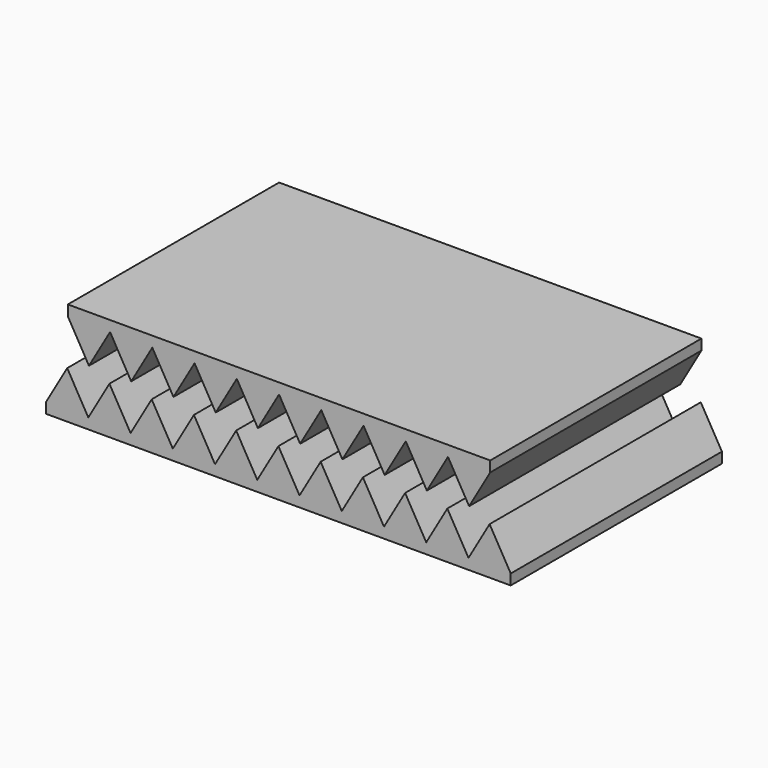
from build123d import *

# Parameters (mm, degrees)
F1_DEPTH = 127


with BuildPart() as f1:
    # F0 (on Front) → F1 (new body)
    with BuildSketch(Plane.XZ):
        Polygon((49.016666, 27.077045), (-154.183334, 27.077045), (-154.183334, 21.997045), (-144.023334, 4.399409), (-133.863334, 21.997045), (-123.703334, 4.399409), (-113.543334, 21.997045), (-103.383334, 4.399409), (-93.223334, 21.997045), (-83.063334, 4.399409), (-72.903334, 21.997045), (-62.743334, 4.399409), (-52.583334, 21.997045), (-42.423334, 4.399409), (-32.263334, 21.997045), (-22.103334, 4.399409), (-11.943334, 21.997045), (-1.783334, 4.399409), (8.376666, 21.997045), (18.536666, 4.399409), (28.696666, 21.997045), (38.856666, 4.399409), (49.016666, 21.997045), align=None)
        Polygon((-154.492017, 0), (-164.652017, -17.597636), (-154.492017, -17.597636), align=None)
        Polygon((-144.332017, -17.597636), (-154.492017, 0), (-154.492017, -17.597636), align=None)
        Polygon((-154.492017, -17.597636), (-164.652017, -17.597636), (-164.652017, -22.677636), (58.867983, -22.677636), (58.867983, -17.597636), (48.707983, 0), (38.547983, -17.597636), (28.387983, 0), (18.227983, -17.597636), (8.067983, 0), (-2.092017, -17.597636), (-12.252017, 0), (-22.412017, -17.597636), (-32.572017, 0), (-42.732017, -17.597636), (-52.892017, 0), (-63.052017, -17.597636), (-73.212017, 0), (-83.372017, -17.597636), (-93.532017, 0), (-103.692017, -17.597636), (-113.852017, 0), (-124.012017, -17.597636), (-134.172017, 0), (-144.332017, -17.597636), align=None)
    extrude(amount=F1_DEPTH)


solid = f1.part
